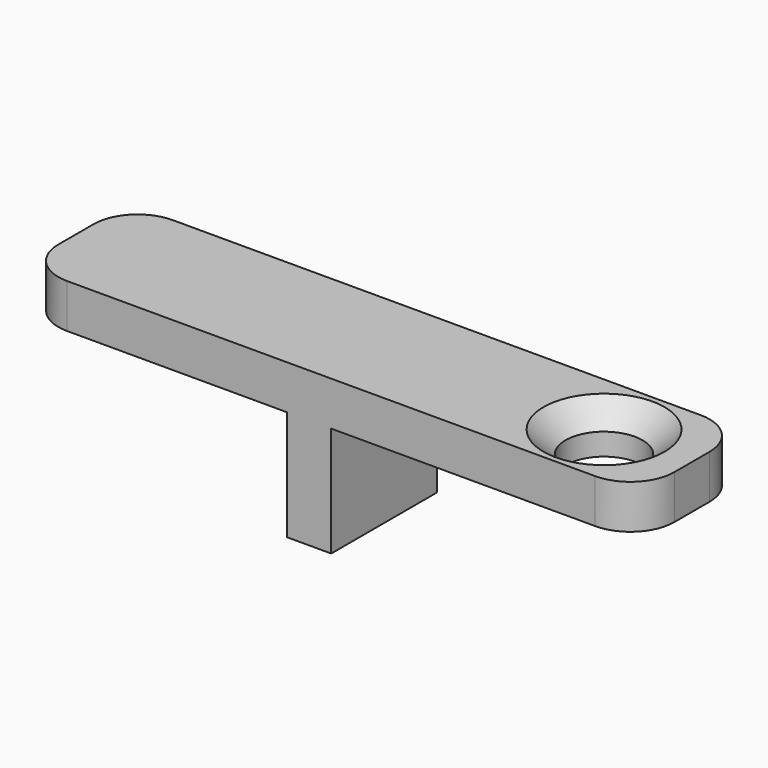
from build123d import *

# Parameters (mm, degrees)
F0_W     = 28
F0_H     = 6
F0_R     = 1.75
F1_DEPTH = 2
F2_W     = 2
F2_H     = 6
F3_DEPTH = 5
F4_SIZE  = 1
F5_R     = 2


with BuildPart() as f1:
    # F0 (on Top) → F1 (new body)
    with BuildSketch(Plane.XY):
        Rectangle(F0_W, F0_H)
        with Locations((10, 0)):
            Circle(F0_R, mode=Mode.SUBTRACT)
    extrude(amount=F1_DEPTH)

    # F2 (on face) → F3 (join)
    with BuildSketch(Plane(origin=(0, 0, 0), x_dir=(1, 0, 0), z_dir=(0, 0, -1))):
        with Locations((-1, 0)):
            Rectangle(F2_W, F2_H)
    extrude(amount=F3_DEPTH)

    # F4
    f4_edges = [f1.edges().sort_by_distance(p)[0] for p in [
        (8.25, 0, 2),
    ]]
    chamfer(f4_edges, length=F4_SIZE)

    # F5
    f5_edges = [f1.edges().sort_by_distance(p)[0] for p in [
        (14, -3, 1),
        (-14, -3, 1),
        (-14, 3, 1),
        (14, 3, 1),
    ]]
    fillet(f5_edges, radius=F5_R)


solid = f1.part
